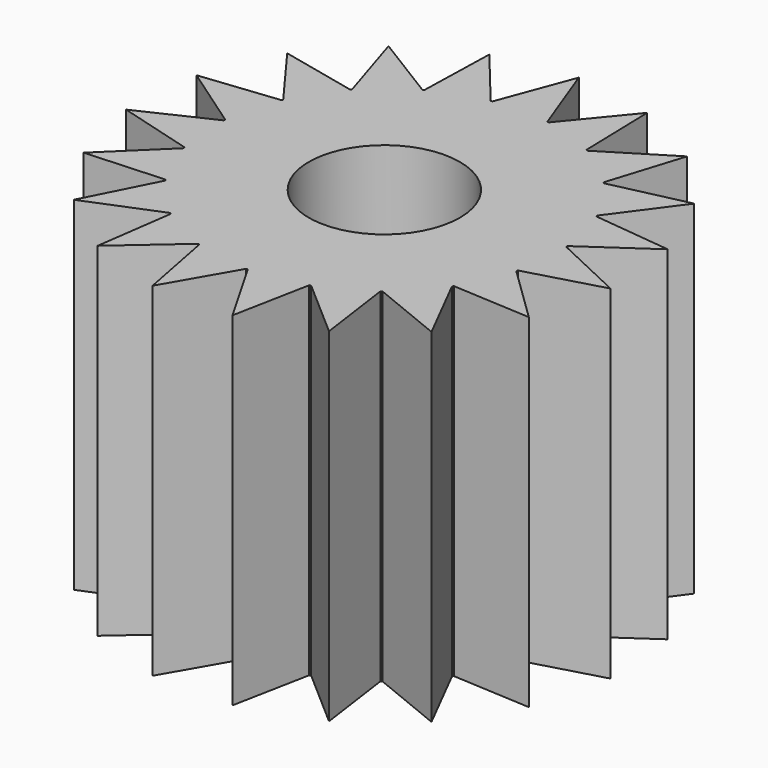
from build123d import *

# Parameters (mm, degrees)
F1_DEPTH = 12.7
F2_R     = 2.794
F3_DEPTH = 12.7


with BuildPart() as f1:
    # F0 (on Top) → F1 (new body)
    with BuildSketch(Plane.XY):
        with BuildLine():
            ThreePointArc((6.162883, -1.530153), (6.303047, -0.770776), (6.35, 0))
            ThreePointArc((6.35, 0), (6.345169, 0.247642), (6.330685, 0.494907))
            ThreePointArc((6.330685, 0.494907), (6.328312, 0.524379), (6.325801, 0.55384))
            ThreePointArc((6.325801, 0.55384), (6.155692, 1.558833), (5.826975, 2.523661))
            ThreePointArc((5.826975, 2.523661), (5.815161, 2.550766), (5.80322, 2.577815))
            ThreePointArc((5.80322, 2.577815), (5.316007, 3.473121), (4.691822, 4.278938))
            ThreePointArc((4.691822, 4.278938), (4.671847, 4.300738), (4.651771, 4.322445))
            ThreePointArc((4.651771, 4.322445), (3.900251, 5.011042), (3.048237, 5.570525))
            ThreePointArc((3.048237, 5.570525), (3.022266, 5.584658), (2.996229, 5.59867))
            ThreePointArc((2.996229, 5.59867), (2.061842, 6.005939), (1.074329, 6.25846))
            ThreePointArc((1.074329, 6.25846), (1.045176, 6.263394), (1.016, 6.268193))
            ThreePointArc((1.016, 6.268193), (0, 6.35), (-1.016, 6.268193))
            ThreePointArc((-1.016, 6.268193), (-1.045176, 6.263394), (-1.074329, 6.25846))
            ThreePointArc((-1.074329, 6.25846), (-2.061842, 6.005939), (-2.996229, 5.59867))
            ThreePointArc((-2.996229, 5.59867), (-3.022266, 5.584658), (-3.048237, 5.570525))
            ThreePointArc((-3.048237, 5.570525), (-3.900251, 5.011042), (-4.651771, 4.322445))
            ThreePointArc((-4.651771, 4.322445), (-4.671847, 4.300738), (-4.691822, 4.278938))
            ThreePointArc((-4.691822, 4.278938), (-5.316007, 3.473121), (-5.80322, 2.577815))
            ThreePointArc((-5.80322, 2.577815), (-5.815161, 2.550766), (-5.826975, 2.523661))
            ThreePointArc((-5.826975, 2.523661), (-6.155692, 1.558833), (-6.325801, 0.55384))
            ThreePointArc((-6.325801, 0.55384), (-6.328312, 0.524379), (-6.330685, 0.494907))
            ThreePointArc((-6.330685, 0.494907), (-6.328312, -0.524379), (-6.162883, -1.530153))
            ThreePointArc((-6.162883, -1.530153), (-6.155692, -1.558833), (-6.148367, -1.587479))
            ThreePointArc((-6.148367, -1.587479), (-5.815161, -2.550766), (-5.332121, -3.44833))
            ThreePointArc((-5.332121, -3.44833), (-5.316007, -3.473121), (-5.299778, -3.497836))
            ThreePointArc((-5.299778, -3.497836), (-4.671847, -4.300738), (-3.923541, -4.992827))
            ThreePointArc((-3.923541, -4.992827), (-3.900251, -5.011042), (-3.876875, -5.029149))
            ThreePointArc((-3.876875, -5.029149), (-3.022266, -5.584658), (-2.089785, -5.996274))
            ThreePointArc((-2.089785, -5.996274), (-2.061842, -6.005939), (-2.033854, -6.015475))
            ThreePointArc((-2.033854, -6.015475), (-1.045176, -6.263394), (-0.029568, -6.349931))
            ThreePointArc((-0.029568, -6.349931), (0, -6.35), (0.029568, -6.349931))
            ThreePointArc((0.029568, -6.349931), (1.045176, -6.263394), (2.033854, -6.015475))
            ThreePointArc((2.033854, -6.015475), (2.061842, -6.005939), (2.089785, -5.996274))
            ThreePointArc((2.089785, -5.996274), (3.022266, -5.584658), (3.876875, -5.029149))
            ThreePointArc((3.876875, -5.029149), (3.900251, -5.011042), (3.923541, -4.992827))
            ThreePointArc((3.923541, -4.992827), (4.671847, -4.300738), (5.299778, -3.497836))
            ThreePointArc((5.299778, -3.497836), (5.316007, -3.473121), (5.332121, -3.44833))
            ThreePointArc((5.332121, -3.44833), (5.815161, -2.550766), (6.148367, -1.587479))
            ThreePointArc((6.148367, -1.587479), (6.155692, -1.558833), (6.162883, -1.530153))
        make_face()
        with BuildLine():
            ThreePointArc((1.074329, 6.25846), (2.061842, 6.005939), (2.996229, 5.59867))
            Line((2.996229, 5.59867), (2.919235, 8.50344))
            Line((2.919235, 8.50344), (1.074329, 6.25846))
        make_face()
        with BuildLine():
            ThreePointArc((-6.325801, 0.55384), (-6.155692, 1.558833), (-5.826975, 2.523661))
            Line((-5.826975, 2.523661), (-8.715465, 2.207055))
            Line((-8.715465, 2.207055), (-6.325801, 0.55384))
        make_face()
        with BuildLine():
            ThreePointArc((-4.651771, 4.322445), (-3.900251, 5.011042), (-3.048237, 5.570525))
            Line((-3.048237, 5.570525), (-5.522125, 7.094826))
            Line((-5.522125, 7.094826), (-4.651771, 4.322445))
        make_face()
        with BuildLine():
            ThreePointArc((5.826975, 2.523661), (6.155692, 1.558833), (6.325801, 0.55384))
            Line((6.325801, 0.55384), (8.715465, 2.207055))
            Line((8.715465, 2.207055), (5.826975, 2.523661))
        make_face()
        with BuildLine():
            ThreePointArc((6.330685, 0.494907), (6.345169, 0.247642), (6.35, 0))
            ThreePointArc((6.35, 0), (6.303047, -0.770776), (6.162883, -1.530153))
            Line((6.162883, -1.530153), (8.959866, -0.742436))
            Line((8.959866, -0.742436), (6.330685, 0.494907))
        make_face()
        with BuildLine():
            Line((8.233328, -3.611472), (6.148367, -1.587479))
            ThreePointArc((6.148367, -1.587479), (5.815161, -2.550766), (5.332121, -3.44833))
            Line((5.332121, -3.44833), (8.233328, -3.611472))
        make_face()
        with BuildLine():
            Line((-4.27904, -7.906974), (-2.089785, -5.996274))
            ThreePointArc((-2.089785, -5.996274), (-3.022266, -5.584658), (-3.876875, -5.029149))
            Line((-3.876875, -5.029149), (-4.27904, -7.906974))
        make_face()
        with BuildLine():
            Line((-6.61458, -6.08915), (-3.923541, -4.992827))
            ThreePointArc((-3.923541, -4.992827), (-4.671847, -4.300738), (-5.299778, -3.497836))
            Line((-5.299778, -3.497836), (-6.61458, -6.08915))
        make_face()
        with BuildLine():
            Line((-8.959866, -0.742436), (-6.162883, -1.530153))
            ThreePointArc((-6.162883, -1.530153), (-6.328312, -0.524379), (-6.330685, 0.494907))
            Line((-6.330685, 0.494907), (-8.959866, -0.742436))
        make_face()
        with BuildLine():
            ThreePointArc((-5.80322, 2.577815), (-5.316007, 3.473121), (-4.691822, 4.278938))
            Line((-4.691822, 4.278938), (-7.526607, 4.917378))
            Line((-7.526607, 4.917378), (-5.80322, 2.577815))
        make_face()
        with BuildLine():
            ThreePointArc((-2.996229, 5.59867), (-2.061842, 6.005939), (-1.074329, 6.25846))
            Line((-1.074329, 6.25846), (-2.919235, 8.50344))
            Line((-2.919235, 8.50344), (-2.996229, 5.59867))
        make_face()
        with BuildLine():
            ThreePointArc((-1.016, 6.268193), (0, 6.35), (1.016, 6.268193))
            Line((1.016, 6.268193), (0, 8.990574))
            Line((0, 8.990574), (-1.016, 6.268193))
        make_face()
        with BuildLine():
            ThreePointArc((3.048237, 5.570525), (3.900251, 5.011042), (4.651771, 4.322445))
            Line((4.651771, 4.322445), (5.522125, 7.094826))
            Line((5.522125, 7.094826), (3.048237, 5.570525))
        make_face()
        with BuildLine():
            Line((1.4798, -8.867954), (2.033854, -6.015475))
            ThreePointArc((2.033854, -6.015475), (1.045176, -6.263394), (0.029568, -6.349931))
            Line((0.029568, -6.349931), (1.4798, -8.867954))
        make_face()
        with BuildLine():
            Line((-1.4798, -8.867954), (-0.029568, -6.349931))
            ThreePointArc((-0.029568, -6.349931), (-1.045176, -6.263394), (-2.033854, -6.015475))
            Line((-2.033854, -6.015475), (-1.4798, -8.867954))
        make_face()
        with BuildLine():
            Line((4.27904, -7.906974), (3.876875, -5.029149))
            ThreePointArc((3.876875, -5.029149), (3.022266, -5.584658), (2.089785, -5.996274))
            Line((2.089785, -5.996274), (4.27904, -7.906974))
        make_face()
        with BuildLine():
            Line((6.61458, -6.08915), (5.299778, -3.497836))
            ThreePointArc((5.299778, -3.497836), (4.671847, -4.300738), (3.923541, -4.992827))
            Line((3.923541, -4.992827), (6.61458, -6.08915))
        make_face()
        with BuildLine():
            ThreePointArc((4.691822, 4.278938), (5.316007, 3.473121), (5.80322, 2.577815))
            Line((5.80322, 2.577815), (7.526607, 4.917378))
            Line((7.526607, 4.917378), (4.691822, 4.278938))
        make_face()
        with BuildLine():
            Line((-8.233328, -3.611472), (-5.332121, -3.44833))
            ThreePointArc((-5.332121, -3.44833), (-5.815161, -2.550766), (-6.148367, -1.587479))
            Line((-6.148367, -1.587479), (-8.233328, -3.611472))
        make_face()
    extrude(amount=F1_DEPTH)

    # F2 (on face) → F3 (cut)
    with BuildSketch(Plane.XY.offset(12.7)):
        Circle(F2_R)
    extrude(amount=-F3_DEPTH, mode=Mode.SUBTRACT)


solid = f1.part
